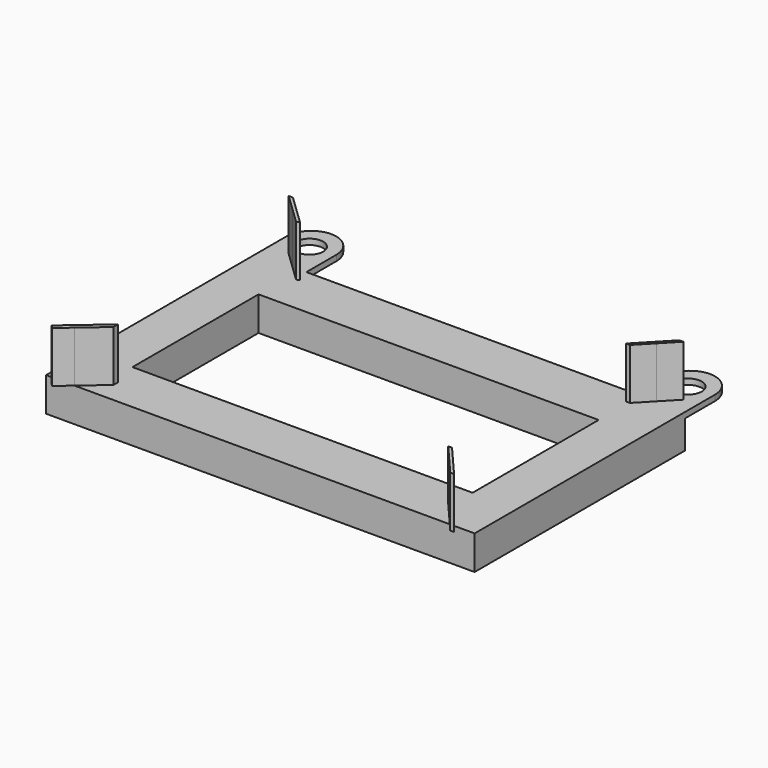
from build123d import *

# Parameters (mm, degrees)
F0_W      = 37.8
F0_H      = 23.2
F1_DEPTH  = 3
F3_DEPTH  = 4.5
F4_W      = 30
F4_H      = 13.9
F5_DEPTH  = 25.4
F4_W_2    = 34.5051246695
F4_H_2    = 1.524
F6_DEPTH  = 0.5
F7_R      = 0.25
F8_R      = 0.2
F9_R      = 0.2
F11_DEPTH = 5.5
F12_R     = 2.19964
F13_R     = 2.19964
F15_R     = 1.2
F14_R     = 1.2
F16_DEPTH = 25.4


with BuildPart() as f1:
    # F0 (on Top) → F1 (new body)
    with BuildSketch(Plane.XY):
        with Locations((18.9, 11.6)):
            Rectangle(F0_W, F0_H)
    extrude(amount=F1_DEPTH)

    # F2 (on face) → F3 (join)
    with BuildSketch(Plane.XY.offset(3)):
        Polygon((1.7535259355, 24.5575234294), (3.1678657052, 23.2), (3.544374615, 23.2), (2.1300348453, 24.5575234294), align=None)
        Polygon((3.544374615, 23.2), (3.1678657052, 23.2), (4.5401435345, 21.8828488141), (4.8160737062, 21.97938714), align=None)
        Polygon((2.5074673859, 0), (1.9109652349, 0), (1.0702608852, -0.7231329801), (1.3239181902, -1.0180314366), align=None)
        Polygon((4.5401435345, 1.7484091301), (4.5401435345, 2.2614912596), (1.9109652349, 0), (2.5074673859, 0), align=None)
        Polygon((33.6620093499, 2.2614912596), (35.6072341062, 0), (35.9434980693, 0), (33.998273313, 2.2614912596), align=None)
        Polygon((35.9434980693, 0), (35.6072341062, 0), (36.2292379141, -0.7231329801), (36.5655018772, -0.7231329801), align=None)
        Polygon((36.2128205597, 24.5575234294), (34.9098310654, 23.2), (35.2625123829, 23.2), (36.5655018772, 24.5575234294), align=None)
        Polygon((35.2625123829, 23.2), (34.9098310654, 23.2), (33.6403721345, 21.8774104865), (33.998273313, 21.8828488141), align=None)
    extrude(amount=F3_DEPTH)

    # F4 (on face) → F5 (cut)
    with BuildSketch(Plane(origin=(0, 0, 0), x_dir=(1, 0, 0), z_dir=(0, 0, -1))):
        with Locations((18.9, -11.6)):
            Rectangle(F4_W, F4_H)
    extrude(amount=-F5_DEPTH, mode=Mode.SUBTRACT)

    # F4 (on face) → F6 (cut)
    with BuildSketch(Plane(origin=(0, 0, 0), x_dir=(1, 0, 0), z_dir=(0, 0, -1))):
        with Locations((18.9, -11.6)):
            Rectangle(F4_W, F4_H)
        with Locations((18.9308619592, -1.8450859749)):
            Rectangle(F4_W_2, F4_H_2)
        with Locations((18.9308619592, -20.676838914)):
            Rectangle(F4_W_2, F4_H_2)
    extrude(amount=-F6_DEPTH, mode=Mode.SUBTRACT)

    # F7
    f7_edges = [f1.edges().sort_by_distance(p)[0] for p in [
        (18.930862, 2.607086, 0.5),
        (18.930862, 1.083086, 0.5),
        (18.930862, 19.914839, 0.5),
        (18.930862, 21.438839, 0.5),
        (1.6783, 19.914839, 0.25),
        (1.6783, 21.438839, 0.25),
        (1.6783, 2.607086, 0.25),
        (1.6783, 1.083086, 0.25),
        (1.6783, 1.845086, 0.5),
        (1.6783, 20.676839, 0.5),
        (36.183424, 19.914839, 0.25),
        (36.183424, 21.438839, 0.25),
        (36.183424, 20.676839, 0.5),
        (36.183424, 1.083086, 0.25),
        (36.183424, 2.607086, 0.25),
        (36.183424, 1.845086, 0.5),
    ]]
    fillet(f7_edges, radius=F7_R)

    # F8
    f8_edges = [f1.edges().sort_by_distance(p)[0] for p in [
        (18.930862, 1.083086, 0),
        (36.183424, 1.845086, 0),
        (36.110201, 1.156309, 0),
        (36.110201, 2.533863, 0),
        (1.6783, 1.845086, 0),
        (1.751523, 1.156309, 0),
        (1.751523, 2.533863, 0),
        (18.930862, 2.607086, 0),
    ]]
    fillet(f8_edges, radius=F8_R)

    # F9
    f9_edges = [f1.edges().sort_by_distance(p)[0] for p in [
        (18.930862, 19.914839, 0),
        (36.110201, 19.988062, 0),
        (36.183424, 20.676839, 0),
        (36.110201, 21.365616, 0),
        (18.930862, 21.438839, 0),
        (1.751523, 21.365616, 0),
        (1.6783, 20.676839, 0),
        (1.751523, 19.988062, 0),
    ]]
    fillet(f9_edges, radius=F9_R)

    # F10 (on face) → F11 (join)
    with BuildSketch(Plane(origin=(0, 23.2, 0), x_dir=(-1, 0, 0), z_dir=(0, 1, 0))):
        Polygon((-33.4, 2.5), (-33.4, 3), (-34.9098310654, 3), (-35.2625123829, 3), (-37.8, 3), (-37.8, 2.5), align=None)
        Polygon((0, 2.5), (0, 3), (-3.1678657052, 3), (-3.544374615, 3), (-4.4, 3), (-4.4, 2.5), align=None)
    extrude(amount=F11_DEPTH)

    # F12
    f12_edges = [f1.edges().sort_by_distance(p)[0] for p in [
        (0, 28.7, 2.75),
        (4.4, 28.7, 2.75),
    ]]
    fillet(f12_edges, radius=F12_R)

    # F13
    f13_edges = [f1.edges().sort_by_distance(p)[0] for p in [
        (33.4, 28.7, 2.75),
        (37.8, 28.7, 2.75),
    ]]
    fillet(f13_edges, radius=F13_R)

    # F15 (on face) + F14 (on face) → F16 (cut)
    with BuildSketch(Plane(origin=(0, 0, 2.5), x_dir=(1, 0, 0), z_dir=(0, 0, -1))):
        with Locations((2.2002029091, -26.3000000051)):
            Circle(F15_R)
    with BuildSketch(Plane(origin=(0, 0, 2.5), x_dir=(1, 0, 0), z_dir=(0, 0, -1))):
        with Locations((35.6002029091, -26.3000000051)):
            Circle(F14_R)
    extrude(amount=-F16_DEPTH, mode=Mode.SUBTRACT)


solid = f1.part
